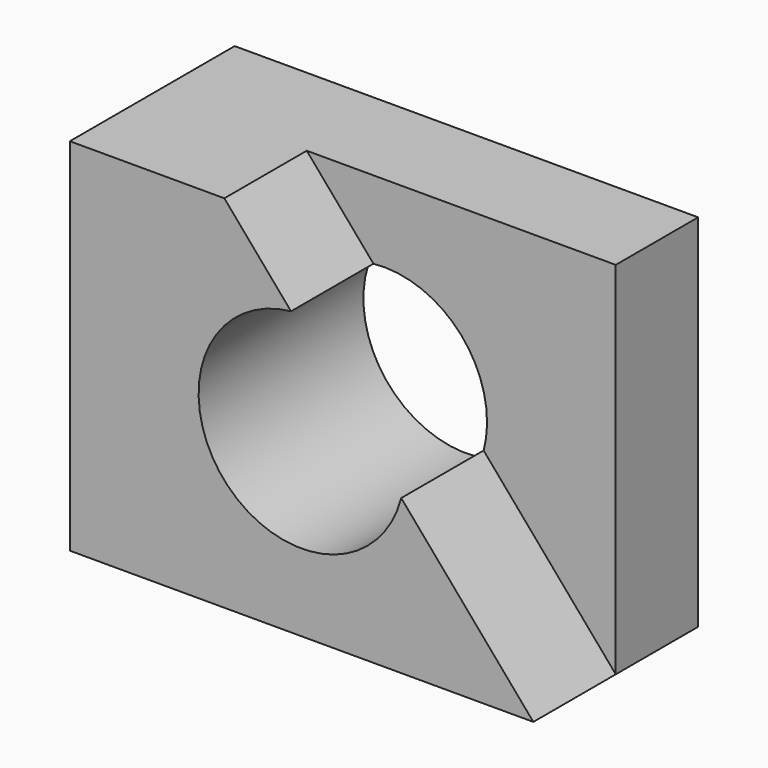
from build123d import *

# Parameters (mm, degrees)
F0_R     = 25.4
F1_DEPTH = 50.8
F3_DEPTH = 25.4


with BuildPart() as f1:
    # F0 (on Front) → F1 (new body)
    with BuildSketch(Plane.XZ):
        Polygon((-16.652738, -13.931431), (-54.752738, -13.931431), (-54.752738, -102.831431), (59.547262, -102.831431), (59.547262, -13.931431), align=None)
        with Locations((2.397262, -58.381431)):
            Circle(F0_R, mode=Mode.SUBTRACT)
    extrude(amount=F1_DEPTH)

    # F2 (on face) → F3 (cut)
    with BuildSketch(Plane.XZ.offset(50.8)):
        with BuildLine():
            Line((59.547262, -13.931431), (-16.652738, -13.931431))
            Line((-16.652738, -13.931431), (-0.209232, -33.115522))
            ThreePointArc((-0.209232, -33.115522), (19.411301, -39.521886), (27.797262, -58.381431))
            ThreePointArc((27.797262, -58.381431), (27.588913, -61.628076), (26.967285, -64.821459))
            Line((26.967285, -64.821459), (59.547262, -102.831431))
            Line((59.547262, -102.831431), (59.547262, -13.931431))
        make_face()
    extrude(amount=-F3_DEPTH, mode=Mode.SUBTRACT)


solid = f1.part
